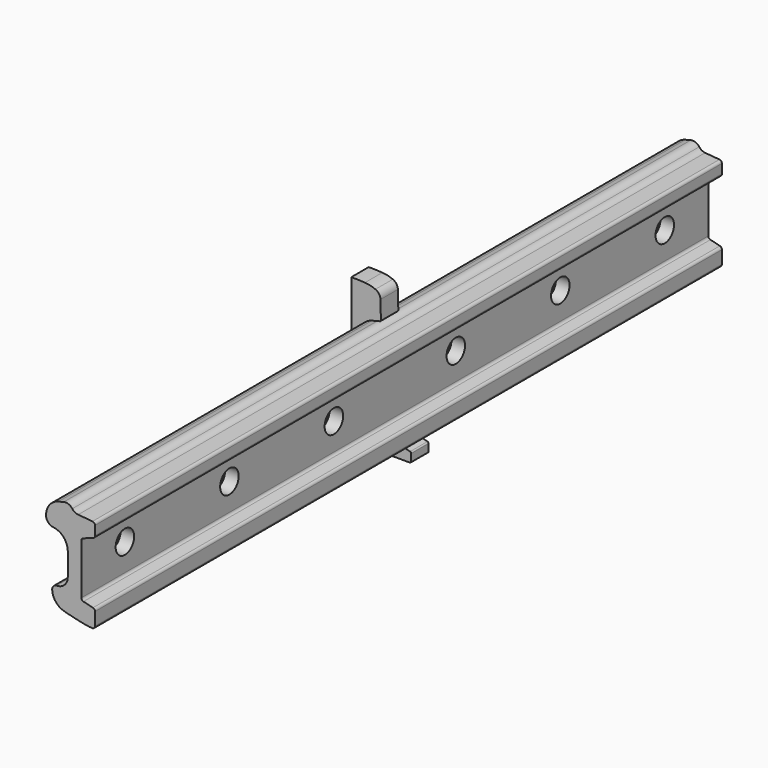
from build123d import *

# Parameters (mm, degrees)
F1_DEPTH = 25.4
F5_DEPTH = 304.8
F6_D     = 26.9875
F7_DEPTH = 457.2
F8_D     = 26.9875


with BuildPart() as f1:
    # F0 (on Front) → F1 (new body)
    with BuildSketch(Plane.XZ):
        with BuildLine():
            Line((0, 168.275), (0, 0))
            Line((0, 0), (68.2625, 0))
            ThreePointArc((68.2625, 0), (69.3850320151, 0.4649679849), (69.85, 1.5875))
            Line((69.85, 1.5875), (69.85, 9.8730174548))
            ThreePointArc((69.85, 9.8730174548), (69.5137761329, 10.8499843373), (68.6475253047, 11.4131186738))
            Line((68.6475253047, 11.4131186738), (24.9649692751, 22.3337576812))
            ThreePointArc((24.9649692751, 22.3337576812), (15.3272819336, 28.1812003985), (10.6823166829, 38.452612251))
            ThreePointArc((10.6823166829, 38.452612251), (8.6243675383, 60.4586350302), (7.9375, 82.55))
            ThreePointArc((7.9375, 82.55), (8.1646482703, 95.2581176236), (8.8458028883, 107.95))
            ThreePointArc((8.8458028883, 107.95), (9.2701789256, 112.2001459495), (9.9320304407, 116.4198364814))
            ThreePointArc((9.9320304407, 116.4198364814), (14.7845142922, 125.9924500169), (24.0415108124, 131.4228777031))
            Line((24.0415108124, 131.4228777031), (33.3256503047, 133.7439125762))
            ThreePointArc((33.3256503047, 133.7439125762), (34.2040230216, 134.3227741326), (34.5276282816, 135.3237231657))
            Line((34.5276282816, 135.3237231657), (34.0010108957, 156.3702295088))
            ThreePointArc((34.0010108957, 156.3702295088), (32.3370399621, 161.5149738191), (28.1407382747, 164.9249951439))
            ThreePointArc((28.1407382747, 164.9249951439), (22.1265788659, 166.8619937368), (15.875, 167.7784208349))
            ThreePointArc((15.875, 167.7784208349), (7.9413823713, 168.1508248554), (0, 168.275))
        make_face()
    extrude(amount=-F1_DEPTH)


with BuildPart() as f5:
    # F2 (on Front) → F5 (new body, symmetric)
    with BuildSketch(Plane.XZ):
        with BuildLine():
            Line((50.8, 41.2629707227), (50.8, 100.0125))
            ThreePointArc((50.8, 100.0125), (51.3741922594, 101.8336051854), (52.8890860449, 102.996024071))
            Line((52.8890860449, 102.996024071), (64.5859139551, 107.2533212656))
            ThreePointArc((64.5859139551, 107.2533212656), (66.1008077406, 108.4157401512), (66.675, 110.2368453366))
            Line((66.675, 110.2368453366), (66.675, 120.8325639578))
            ThreePointArc((66.675, 120.8325639578), (65.8408555444, 122.9775628669), (63.7767194832, 123.9954821242))
            Line((63.7767194832, 123.9954821242), (47.0749241448, 125.4566998768))
            ThreePointArc((47.0749241448, 125.4566998768), (43.221686006, 126.6513949723), (40.2085750556, 129.3339129922))
            ThreePointArc((40.2085750556, 129.3339129922), (35.7594875451, 132.6766939253), (30.2019156883, 132.9629789221))
            Line((30.2019156883, 132.9629789221), (24.0415108124, 131.4228777031))
            ThreePointArc((24.0415108124, 131.4228777031), (14.7845142922, 125.9924500169), (9.9320304407, 116.4198364814))
            ThreePointArc((9.9320304407, 116.4198364814), (9.6579163907, 114.2661848069), (9.6306237319, 112.0953303303))
            ThreePointArc((9.6306237319, 112.0953303303), (12.1785319064, 106.0241175821), (18.0558127337, 103.0561165078))
            ThreePointArc((18.0558127337, 103.0561165078), (30.0955306261, 96.8072785186), (34.925, 84.1313561178))
            Line((34.925, 84.1313561178), (34.925, 57.15))
            ThreePointArc((34.925, 57.15), (31.2226029793, 48.1871243104), (22.2741117123, 44.4500949594))
            ThreePointArc((22.2741117123, 44.4500949594), (18.2941990707, 42.7488469424), (16.7424483739, 38.7083000457))
            ThreePointArc((16.7424483739, 38.7083000457), (20.8376968822, 27.5303796318), (30.7687707347, 20.9660261024))
            ThreePointArc((30.7687707347, 20.9660261024), (34.4292808671, 19.9884850791), (38.0999984233, 19.0500003942))
            ThreePointArc((38.0999984233, 19.0500003942), (45.941035202, 17.1838969048), (53.8223522455, 15.4959864634))
            ThreePointArc((53.8223522455, 15.4959864634), (58.5226548629, 14.6970984785), (63.2637177656, 14.1937206277))
            ThreePointArc((63.2637177656, 14.1937206277), (65.6599107511, 15.0328129387), (66.675, 17.3599164059))
            Line((66.675, 17.3599164059), (66.675, 32.336290542))
            ThreePointArc((66.675, 32.336290542), (66.0025522657, 34.2902243069), (64.2700506095, 35.41649298))
            Line((64.2700506095, 35.41649298), (53.2049493905, 38.1827682847))
            ThreePointArc((53.2049493905, 38.1827682847), (51.4724477343, 39.3090369578), (50.8, 41.2629707227))
        make_face()
    extrude(amount=F5_DEPTH, both=True)

    # F6 (through all)
    with Locations(Plane.YZ.offset(76.2)):
        with Locations((-241.3, 73.025), (-88.9, 73.025), (88.9, 73.025), (241.3, 73.025)):
            Hole(F6_D / 2)


with BuildPart() as f7:
    # F2 (on Front) → F7 (new body, symmetric)
    with BuildSketch(Plane.XZ):
        with BuildLine():
            Line((50.8, 41.2629707227), (50.8, 100.0125))
            ThreePointArc((50.8, 100.0125), (51.3741922594, 101.8336051854), (52.8890860449, 102.996024071))
            Line((52.8890860449, 102.996024071), (64.5859139551, 107.2533212656))
            ThreePointArc((64.5859139551, 107.2533212656), (66.1008077406, 108.4157401512), (66.675, 110.2368453366))
            Line((66.675, 110.2368453366), (66.675, 120.8325639578))
            ThreePointArc((66.675, 120.8325639578), (65.8408555444, 122.9775628669), (63.7767194832, 123.9954821242))
            Line((63.7767194832, 123.9954821242), (47.0749241448, 125.4566998768))
            ThreePointArc((47.0749241448, 125.4566998768), (43.221686006, 126.6513949723), (40.2085750556, 129.3339129922))
            ThreePointArc((40.2085750556, 129.3339129922), (35.7594875451, 132.6766939253), (30.2019156883, 132.9629789221))
            Line((30.2019156883, 132.9629789221), (24.0415108124, 131.4228777031))
            ThreePointArc((24.0415108124, 131.4228777031), (14.7845142922, 125.9924500169), (9.9320304407, 116.4198364814))
            ThreePointArc((9.9320304407, 116.4198364814), (9.6579163907, 114.2661848069), (9.6306237319, 112.0953303303))
            ThreePointArc((9.6306237319, 112.0953303303), (12.1785319064, 106.0241175821), (18.0558127337, 103.0561165078))
            ThreePointArc((18.0558127337, 103.0561165078), (30.0955306261, 96.8072785186), (34.925, 84.1313561178))
            Line((34.925, 84.1313561178), (34.925, 57.15))
            ThreePointArc((34.925, 57.15), (31.2226029793, 48.1871243104), (22.2741117123, 44.4500949594))
            ThreePointArc((22.2741117123, 44.4500949594), (18.2941990707, 42.7488469424), (16.7424483739, 38.7083000457))
            ThreePointArc((16.7424483739, 38.7083000457), (20.8376968822, 27.5303796318), (30.7687707347, 20.9660261024))
            ThreePointArc((30.7687707347, 20.9660261024), (34.4292808671, 19.9884850791), (38.0999984233, 19.0500003942))
            ThreePointArc((38.0999984233, 19.0500003942), (45.941035202, 17.1838969048), (53.8223522455, 15.4959864634))
            ThreePointArc((53.8223522455, 15.4959864634), (58.5226548629, 14.6970984785), (63.2637177656, 14.1937206277))
            ThreePointArc((63.2637177656, 14.1937206277), (65.6599107511, 15.0328129387), (66.675, 17.3599164059))
            Line((66.675, 17.3599164059), (66.675, 32.336290542))
            ThreePointArc((66.675, 32.336290542), (66.0025522657, 34.2902243069), (64.2700506095, 35.41649298))
            Line((64.2700506095, 35.41649298), (53.2049493905, 38.1827682847))
            ThreePointArc((53.2049493905, 38.1827682847), (51.4724477343, 39.3090369578), (50.8, 41.2629707227))
        make_face()
    extrude(amount=F7_DEPTH, both=True)

    # F8 (through all)
    with Locations(Plane.YZ.offset(76.2)):
        with Locations((-393.7, 73.025), (-241.3, 73.025), (-88.9, 73.025), (88.9, 73.025), (241.3, 73.025), (393.7, 73.025)):
            Hole(F8_D / 2)


solid = Compound([f1.part, f5.part, f7.part])
